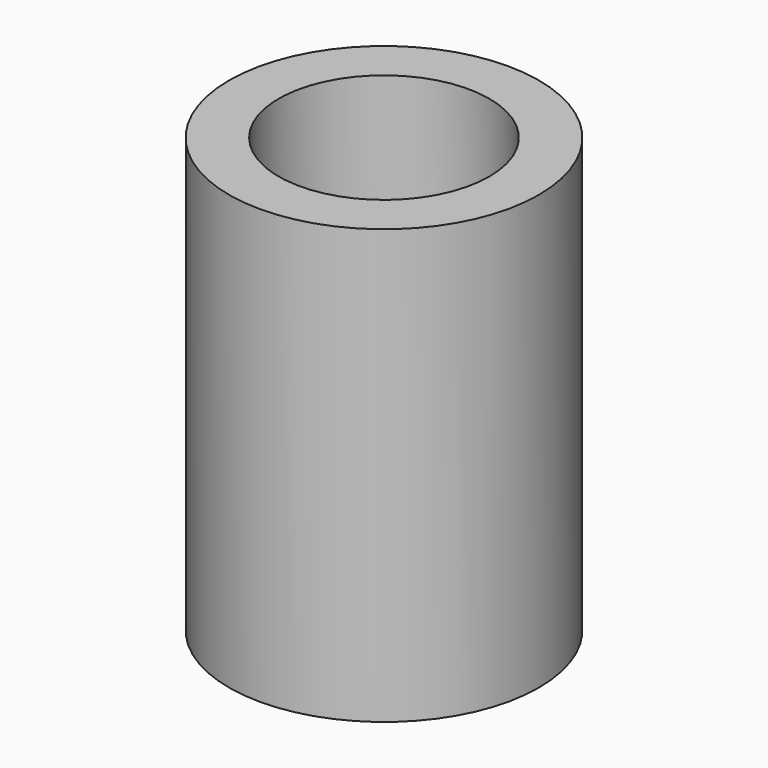
from build123d import *

# Parameters (mm, degrees)
F0_R     = 12.7
F1_DEPTH = 35.56
F2_R     = 8.636
F3_DEPTH = 9.525
F4_R     = 2.794
F5_DEPTH = 254
F6_R     = 8.636
F6_R_2   = 2.794
F8_DEPTH = 9.4488


with BuildPart() as f1:
    # F0 (on Top) → F1 (new body)
    with BuildSketch(Plane.XY):
        Circle(F0_R)
    extrude(amount=F1_DEPTH)

    # F2 (on face) → F3 (cut)
    with BuildSketch(Plane.XY.offset(35.56)):
        Circle(F2_R)
    extrude(amount=-F3_DEPTH, mode=Mode.SUBTRACT)

    # F4 (on face) → F5 (cut)
    with BuildSketch(Plane.XY.offset(26.035)):
        Circle(F4_R)
    extrude(amount=-F5_DEPTH, mode=Mode.SUBTRACT)

    # F6 (on face) → F8 (cut)
    with BuildSketch(Plane(origin=(0, 0, 0), x_dir=(1, 0, 0), z_dir=(0, 0, -1))):
        Circle(F6_R)
        Circle(F6_R_2, mode=Mode.SUBTRACT)
    extrude(amount=-F8_DEPTH, mode=Mode.SUBTRACT)


solid = f1.part
